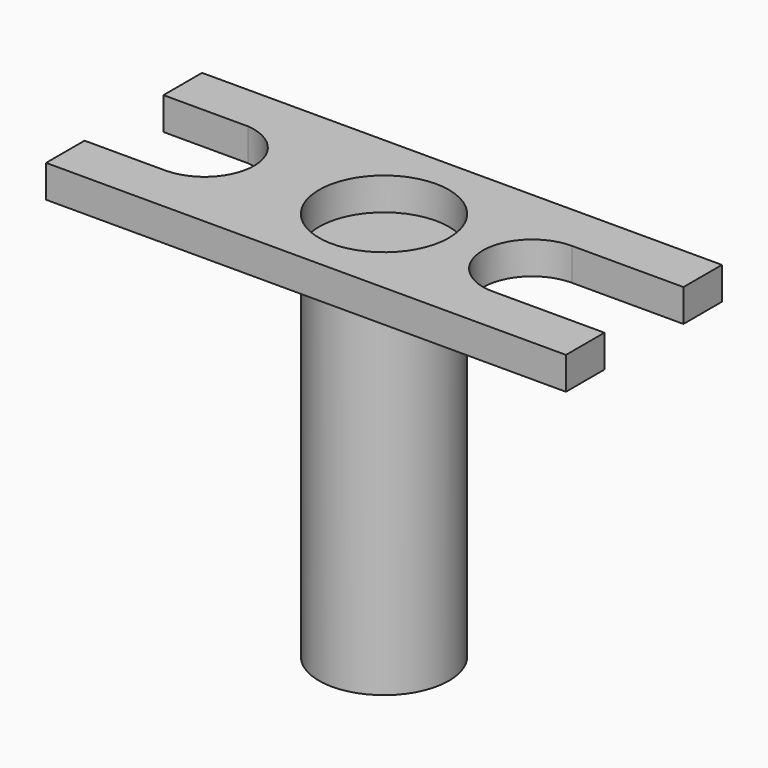
from build123d import *

# Parameters (mm, degrees)
F0_R     = 12.7
F1_DEPTH = 6.35
F2_R     = 12.7
F3_DEPTH = 69.85


with BuildPart() as f1:
    # F0 (on Top) → F1 (new body)
    with BuildSketch(Plane.XY):
        with BuildLine():
            Line((-50.8, 28.702), (-50.8, 19.273874))
            Line((-50.8, 19.273874), (-34.29, 19.273874))
            ThreePointArc((-34.29, 19.273874), (-25.407534, 9.270702), (-35.052, 0))
            Line((-35.052, 0), (-50.8, 0))
            Line((-50.8, 0), (-50.8, -9.398))
            Line((-50.8, -9.398), (50.8, -9.398))
            Line((50.8, -9.398), (50.8, 0))
            Line((50.8, 0), (28.979867, 0))
            ThreePointArc((28.979867, 0), (19.327867, 9.652), (28.979867, 19.304))
            Line((28.979867, 19.304), (50.8, 19.304))
            Line((50.8, 19.304), (50.8, 28.702))
            Line((50.8, 28.702), (-50.8, 28.702))
        make_face()
        with Locations((0, 9.652)):
            Circle(F0_R, mode=Mode.SUBTRACT)
    extrude(amount=F1_DEPTH)

    # F2 (on Top) → F3 (join)
    with BuildSketch(Plane.XY):
        with Locations((0, 9.652)):
            Circle(F2_R)
    extrude(amount=-F3_DEPTH)


solid = f1.part
